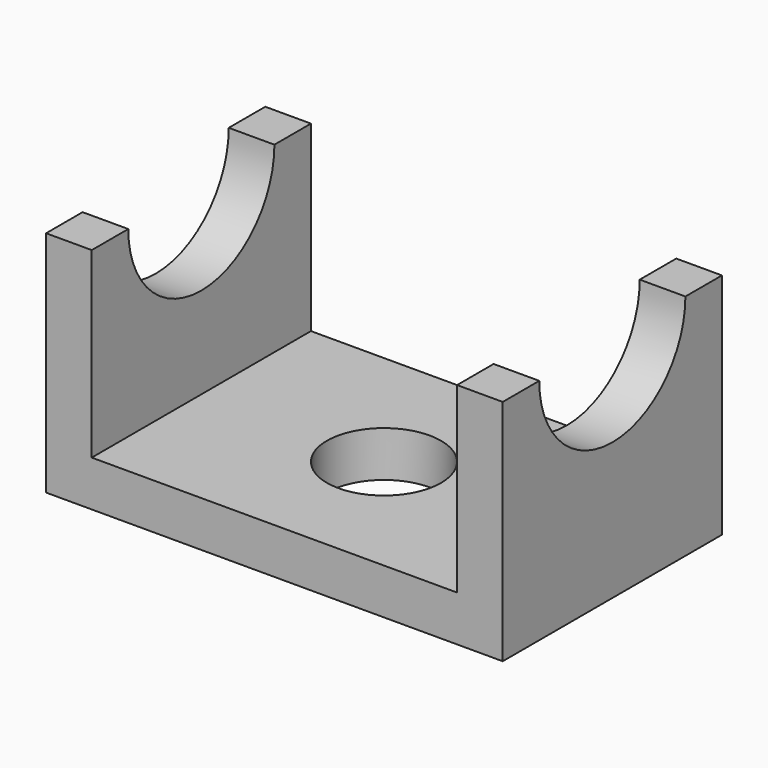
from build123d import *

# Parameters (mm, degrees)
F0_R     = 15.875
F0_W     = 12.7
F0_H     = 76.2
F1_DEPTH = 12.7
F2_DEPTH = 63.5
F4_DEPTH = 127.001


with BuildPart() as f1:
    # F0 (on Top) → F1 (new body)
    with BuildSketch(Plane.XY):
        Polygon((50.8, -38.1), (50.8, 38.1), (-50.8, 38.1), (-50.8, -38.1), (0, -38.1), align=None)
        Circle(F0_R, mode=Mode.SUBTRACT)
        with Locations((-57.15, 0)):
            Rectangle(F0_W, F0_H)
        Polygon((63.5, 0), (63.5, 38.1), (50.8, 38.1), (50.8, -38.1), (63.5, -38.1), align=None)
    extrude(amount=F1_DEPTH)

    # F0 (on Top) → F2 (join)
    with BuildSketch(Plane.XY):
        with Locations((-57.15, 0)):
            Rectangle(F0_W, F0_H)
        Polygon((63.5, 0), (63.5, 38.1), (50.8, 38.1), (50.8, -38.1), (63.5, -38.1), align=None)
    extrude(amount=F2_DEPTH)

    # F3 (on face) → F4 (cut, through all)
    with BuildSketch(Plane.YZ.offset(63.5)):
        with BuildLine():
            ThreePointArc((-25.4, 63.5), (0, 38.1), (25.4, 63.5))
            Line((25.4, 63.5), (-25.4, 63.5))
        make_face()
    extrude(amount=-F4_DEPTH, mode=Mode.SUBTRACT)


solid = f1.part
